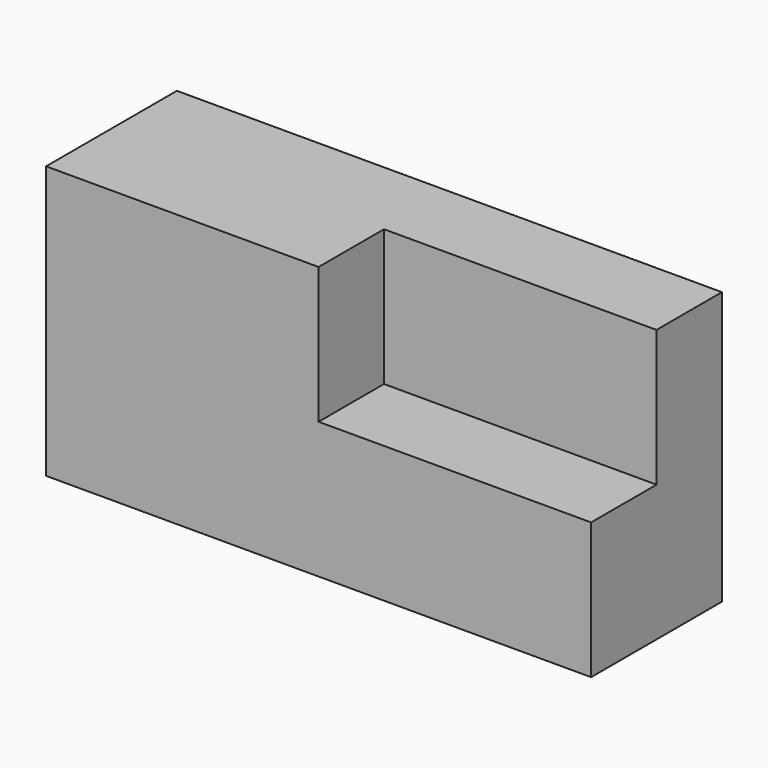
from build123d import *

# Parameters (mm, degrees)
F1_DEPTH = 38.1
F0_W     = 63.5
F0_H     = 31.75
F2_DEPTH = 19.05


with BuildPart() as f1:
    # F0 (on Front) → F1 (new body)
    with BuildSketch(Plane.XZ):
        Polygon((-67.157373, 0), (-67.157373, -63.5), (59.842627, -63.5), (59.842627, -31.75), (-3.657373, -31.75), (-3.657373, 0), align=None)
    extrude(amount=F1_DEPTH)

    # F0 (on Front) → F2 (join)
    with BuildSketch(Plane.XZ):
        Polygon((-67.157373, 0), (-67.157373, -63.5), (59.842627, -63.5), (59.842627, -31.75), (-3.657373, -31.75), (-3.657373, 0), align=None)
        with Locations((28.092627, -15.875)):
            Rectangle(F0_W, F0_H)
    extrude(amount=F2_DEPTH)


solid = f1.part
